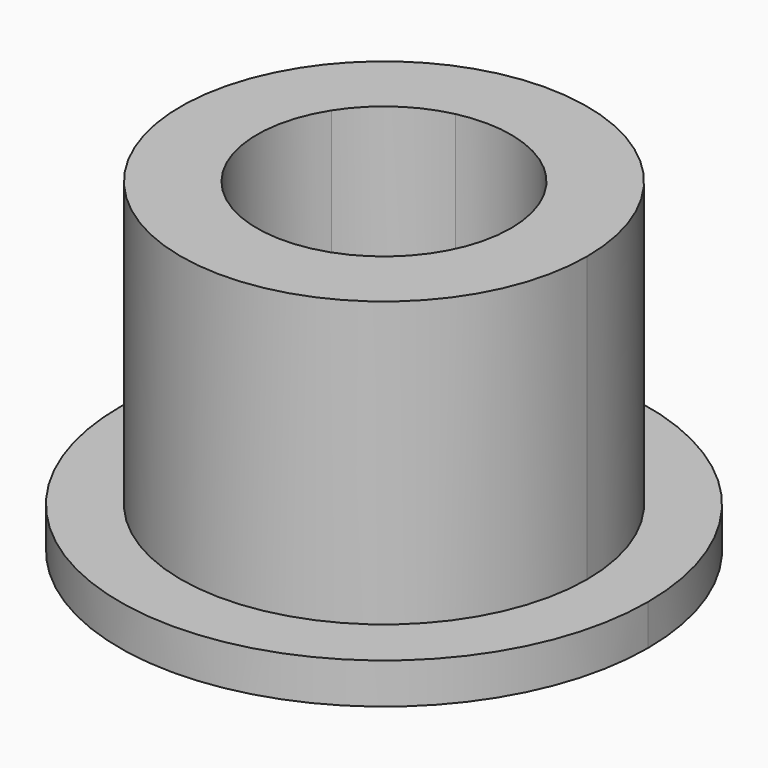
from build123d import *

# Parameters (mm, degrees)
F1_DEPTH = 2
F2_DEPTH = 16


with BuildPart() as f1:
    # F0 (on Top) → F1 (new body)
    with BuildSketch(Plane.XY):
        with BuildLine():
            ThreePointArc((13, 0), (3.628848584, 12.4832470918), (-10.9740704545, 6.969202082))
            ThreePointArc((-10.9740704545, 6.969202082), (-3.628848584, -12.4832470918), (13, 0))
        make_face()
        with BuildLine():
            ThreePointArc((10, 0), (-2.7914219877, -9.6024977629), (-8.4415926573, 5.3609246784))
            ThreePointArc((-8.4415926573, 5.3609246784), (-5.7521539146, 8.1800198865), (-2.1895164333, 9.7573571108))
            ThreePointArc((-2.1895164333, 9.7573571108), (6.2491933746, 7.8068932468), (10, 0))
        make_face(mode=Mode.SUBTRACT)
    extrude(amount=F1_DEPTH)

    # F0 (on Top) → F2 (join)
    with BuildSketch(Plane.XY):
        with BuildLine():
            ThreePointArc((-1.3684477708, 6.0983481943), (2.2173687229, 5.8434387091), (5.0696124466, 3.6553426161))
            ThreePointArc((5.0696124466, 3.6553426161), (5.9475868128, 1.9206017558), (6.25, 0))
            ThreePointArc((6.25, 0), (-1.7446387423, -6.0015611018), (-5.2759954108, 3.350577924))
            Line((-5.2759954108, 3.350577924), (-8.4415926573, 5.3609246784))
            ThreePointArc((-8.4415926573, 5.3609246784), (-2.7914219877, -9.6024977629), (10, 0))
            ThreePointArc((10, 0), (6.2491933746, 7.8068932468), (-2.1895164333, 9.7573571108))
            Line((-2.1895164333, 9.7573571108), (-1.3684477708, 6.0983481943))
        make_face()
        with BuildLine():
            Line((-8.4415926573, 5.3609246784), (-5.2759954108, 3.350577924))
            ThreePointArc((-5.2759954108, 3.350577924), (-3.5950961966, 5.112512429), (-1.3684477708, 6.0983481943))
            Line((-1.3684477708, 6.0983481943), (-2.1895164333, 9.7573571108))
            ThreePointArc((-2.1895164333, 9.7573571108), (-5.7521539146, 8.1800198865), (-8.4415926573, 5.3609246784))
        make_face()
    extrude(amount=F2_DEPTH)


solid = f1.part
